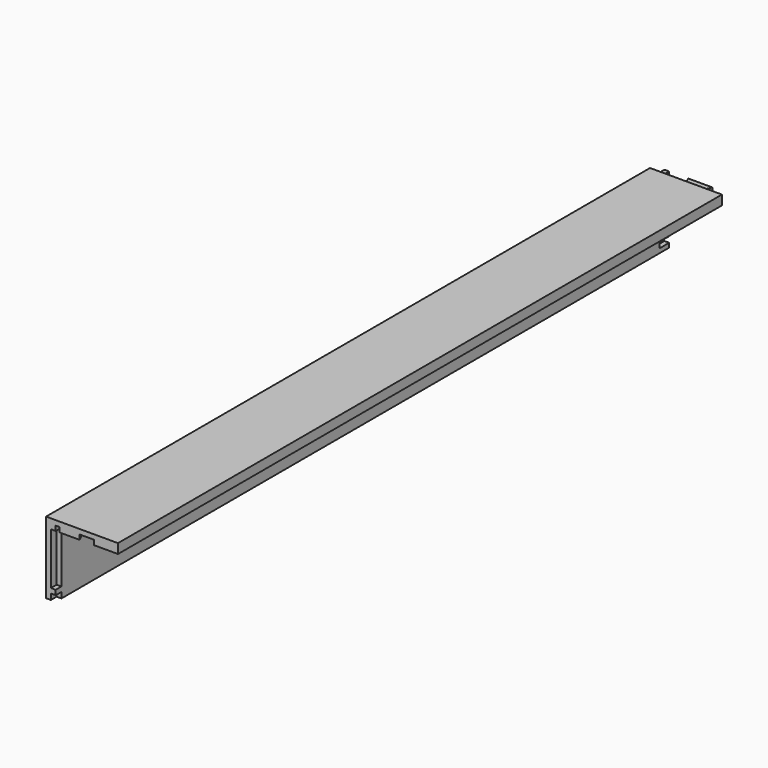
from build123d import *

# Parameters (mm, degrees)
F0_W      = 2
F0_H      = 13
F1_DEPTH  = 160
F2_W      = 1.5
F2_H      = 1.2
F2_H_2    = 10.8
F3_DEPTH  = 1
F4_W      = 0.8
F4_H      = 1.5
F5_DEPTH  = 1
F7_DEPTH  = 2
F8_W      = 2.5
F8_H      = 1.2
F9_DEPTH  = 1
F10_W     = 11
F10_H     = 2.5
F11_DEPTH = 1
F12_W     = 2.5
F12_H     = 14
F13_DEPTH = 1


with BuildPart() as f1:
    # F0 (on Front) → F1 (new body)
    with BuildSketch(Plane.XZ):
        Polygon((15, 0), (0, 0), (0, -2), (2, -2), (15, -2), align=None)
        with Locations((1, -8.5)):
            Rectangle(F0_W, F0_H)
    extrude(amount=F1_DEPTH)

    # F2 (on face) → F3 (cut)
    with BuildSketch(Plane.YZ.offset(2)):
        with Locations((-159.25, -14.4)):
            Rectangle(F2_W, F2_H)
        with Locations((-159.25, -7.4)):
            Rectangle(F2_W, F2_H_2)
    extrude(amount=-F3_DEPTH, mode=Mode.SUBTRACT)

    # F4 (on face) → F5 (cut)
    with BuildSketch(Plane(origin=(0, 0, -2), x_dir=(1, 0, 0), z_dir=(0, 0, -1))):
        Polygon((11.5, 157), (10, 160), (7, 160), (5.5, 157), align=None)
        with Locations((2.4, 159.25)):
            Rectangle(F4_W, F4_H)
    extrude(amount=-F5_DEPTH, mode=Mode.SUBTRACT)

    # F6 (on face) → F7 (cut)
    with BuildSketch(Plane(origin=(0, 0, -2), x_dir=(1, 0, 0), z_dir=(0, 0, -1))):
        Polygon((10, 2.5), (11, 0), (15, 0), (15, 2.5), align=None)
        Polygon((6, 0), (7, 2.5), (2, 2.5), (2, 0), align=None)
    extrude(amount=-F7_DEPTH, mode=Mode.SUBTRACT)

    # F8 (on face) → F9 (cut)
    with BuildSketch(Plane.YZ.offset(2)):
        with Locations((-1.25, -13.5)):
            Rectangle(F8_W, F8_H)
    extrude(amount=-F9_DEPTH, mode=Mode.SUBTRACT)

    # F10 (on face) → F11 (cut)
    with BuildSketch(Plane.XY):
        with Locations((5.5, -1.25)):
            Rectangle(F10_W, F10_H)
    extrude(amount=-F11_DEPTH, mode=Mode.SUBTRACT)

    # F12 (on face) → F13 (cut)
    with BuildSketch(Plane(origin=(0, 0, 0), x_dir=(0, -1, 0), z_dir=(-1, 0, 0))):
        with Locations((1.25, -8)):
            Rectangle(F12_W, F12_H)
    extrude(amount=-F13_DEPTH, mode=Mode.SUBTRACT)


solid = f1.part
